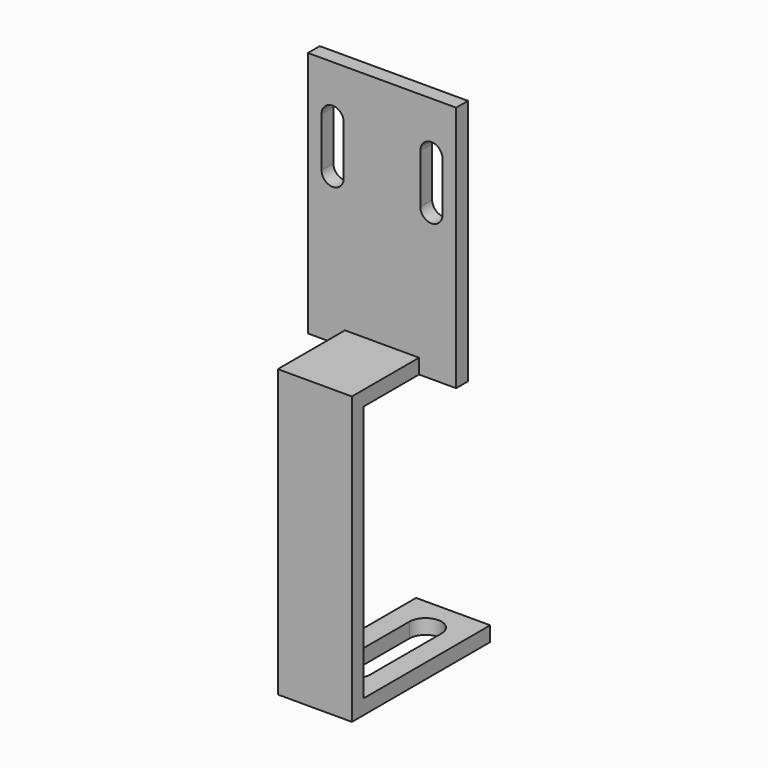
from build123d import *

# Parameters (mm, degrees)
F0_W     = 30
F0_H     = 50
F1_DEPTH = 3
F2_W     = 15
F2_H     = 3
F3_DEPTH = 17
F4_W     = 15
F4_H     = 3
F5_DEPTH = 55
F6_W     = 15
F6_H     = 35
F7_DEPTH = 3


with BuildPart() as f1:
    # F0 (on Front) → F1 (new body)
    with BuildSketch(Plane.XZ):
        Rectangle(F0_W, F0_H)
        with BuildLine():
            ThreePointArc((-12.25, 15), (-10, 17.25), (-7.75, 15))
            Line((-7.75, 15), (-7.75, 5))
            ThreePointArc((-7.75, 5), (-10, 2.75), (-12.25, 5))
            Line((-12.25, 5), (-12.25, 15))
        make_face(mode=Mode.SUBTRACT)
        with BuildLine():
            Line((12.25, 15), (12.25, 5))
            ThreePointArc((12.25, 5), (10, 2.75), (7.75, 5))
            Line((7.75, 5), (7.75, 15))
            ThreePointArc((7.75, 15), (10, 17.25), (12.25, 15))
        make_face(mode=Mode.SUBTRACT)
    extrude(amount=F1_DEPTH)

    # F2 (on face) → F3 (join)
    with BuildSketch(Plane.XZ.offset(3)):
        with Locations((0, -23.5)):
            Rectangle(F2_W, F2_H)
    extrude(amount=F3_DEPTH)

    # F4 (on face) → F5 (join)
    with BuildSketch(Plane(origin=(0, 0, -25), x_dir=(1, 0, 0), z_dir=(0, 0, -1))):
        with Locations((0, 18.5)):
            Rectangle(F4_W, F4_H)
    extrude(amount=F5_DEPTH)

    # F6 (on face) → F7 (join)
    with BuildSketch(Plane(origin=(0, 0, -80), x_dir=(1, 0, 0), z_dir=(0, 0, -1))):
        with Locations((0, 2.5)):
            Rectangle(F6_W, F6_H)
        with BuildLine():
            ThreePointArc((-3.25, 10), (0, 13.25), (3.25, 10))
            Line((3.25, 10), (3.25, -8))
            ThreePointArc((3.25, -8), (0, -11.25), (-3.25, -8))
            Line((-3.25, -8), (-3.25, 10))
        make_face(mode=Mode.SUBTRACT)
    extrude(amount=-F7_DEPTH)


solid = f1.part
